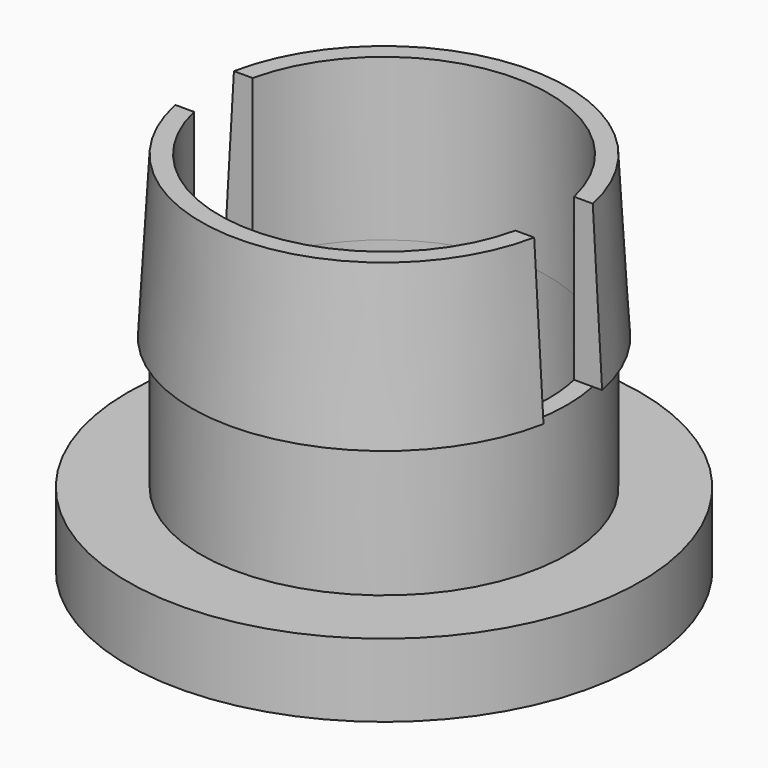
from build123d import *

# Parameters (mm, degrees)
F2_R     = 4.5
F3_DEPTH = 8
F4_W     = 30
F4_H     = 2
F5_DEPTH = 4.4


with BuildPart() as f1:
    # F0 (on Front) → F1 (revolve)
    with BuildSketch(Plane.XZ):
        Polygon((-7, 0), (0, 0), (0, 10), (-5, 10), (-5.25, 5.6), (-5, 5.6), (-5, 2), (-7, 2), align=None)
    revolve(axis=Axis((0, 0, 5), (0, 0, -1)))

    # F2 (on face) → F3 (cut)
    with BuildSketch(Plane.XY.offset(10)):
        Circle(F2_R)
    extrude(amount=-F3_DEPTH, mode=Mode.SUBTRACT)

    # F4 (on face) → F5 (cut)
    with BuildSketch(Plane.XY.offset(10)):
        with Locations((0.8593, 0)):
            Rectangle(F4_W, F4_H)
        with BuildLine():
            Line((-4.387482, 1), (4.387482, 1))
            ThreePointArc((4.387482, 1), (0, 4.5), (-4.387482, 1))
        make_face()
        with BuildLine():
            Line((-4.387482, 1), (4.387482, 1))
            ThreePointArc((4.387482, 1), (0, 4.5), (-4.387482, 1))
        make_face()
        with BuildLine():
            Line((15.8593, -1), (15.8593, 1))
            Line((15.8593, 1), (4.387482, 1))
            ThreePointArc((4.387482, 1), (4.471782, 0.503155), (4.5, 0))
            ThreePointArc((4.5, 0), (4.471782, -0.503155), (4.387482, -1))
            Line((4.387482, -1), (15.8593, -1))
        make_face()
    extrude(amount=-F5_DEPTH, mode=Mode.SUBTRACT)


solid = f1.part
